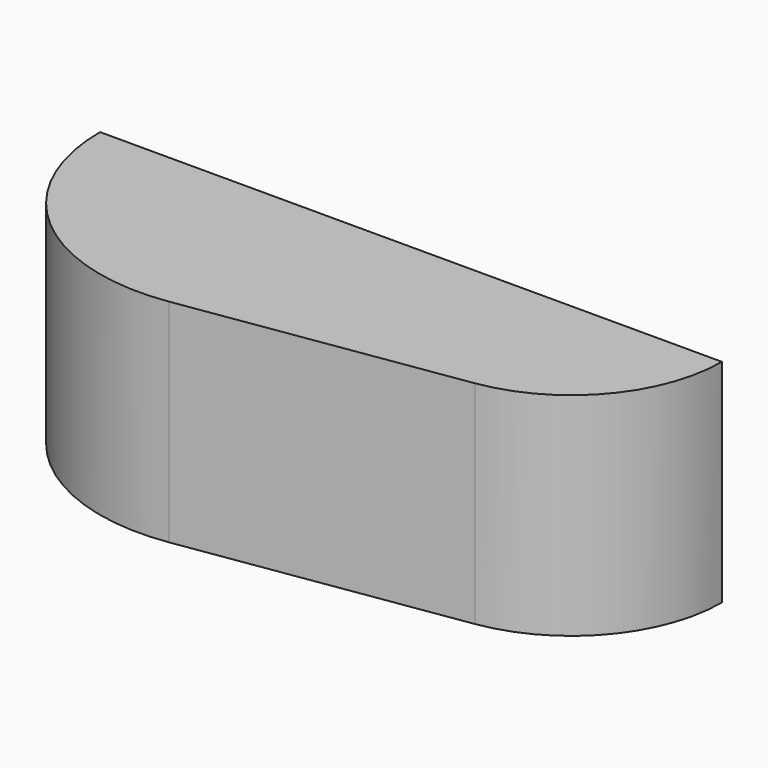
from build123d import *

# Parameters (mm, degrees)
F1_DEPTH = 19
F2_T     = -4


with BuildPart() as f1:
    # F0 (on Top) → F1 (new body, symmetric)
    with BuildSketch(Plane.XY):
        with BuildLine():
            Line((-36.589303, 0), (-94.089303, 0))
            ThreePointArc((-94.089303, 0), (-82.080551, -26.16092), (-54.414303, -34.109667))
            ThreePointArc((-54.414303, -34.109667), (-40.357871, -28.642661), (-29.976803, -17.70169))
            ThreePointArc((-29.976803, -17.70169), (-34.882212, -9.448214), (-36.589303, 0))
        make_face()
        with BuildLine():
            ThreePointArc((-29.976803, -17.70169), (-40.357871, -28.642661), (-54.414303, -34.109667))
            Line((-54.414303, -34.109667), (-5.539303, -26.694522))
            ThreePointArc((-5.539303, -26.694522), (-18.913799, -25.33878), (-29.976803, -17.70169))
        make_face()
        with BuildLine():
            Line((-25.089303, 0), (-36.589303, 0))
            ThreePointArc((-36.589303, 0), (-34.882212, -9.448214), (-29.976803, -17.70169))
            ThreePointArc((-29.976803, -17.70169), (-26.333617, -9.182014), (-25.089303, 0))
        make_face()
        with BuildLine():
            ThreePointArc((-25.089303, 0), (-26.333617, -9.182014), (-29.976803, -17.70169))
            ThreePointArc((-29.976803, -17.70169), (-18.913799, -25.33878), (-5.539303, -26.694522))
            ThreePointArc((-5.539303, -26.694522), (10.884461, -17.601846), (17.410697, 0))
            Line((17.410697, 0), (-25.089303, 0))
        make_face()
    extrude(amount=F1_DEPTH, both=True)

    # F2
    f2_openings = [f1.faces().sort_by_distance(p)[0] for p in [
        (-38.339303, 0, 0),
    ]]
    offset(amount=F2_T, openings=f2_openings)


solid = f1.part
